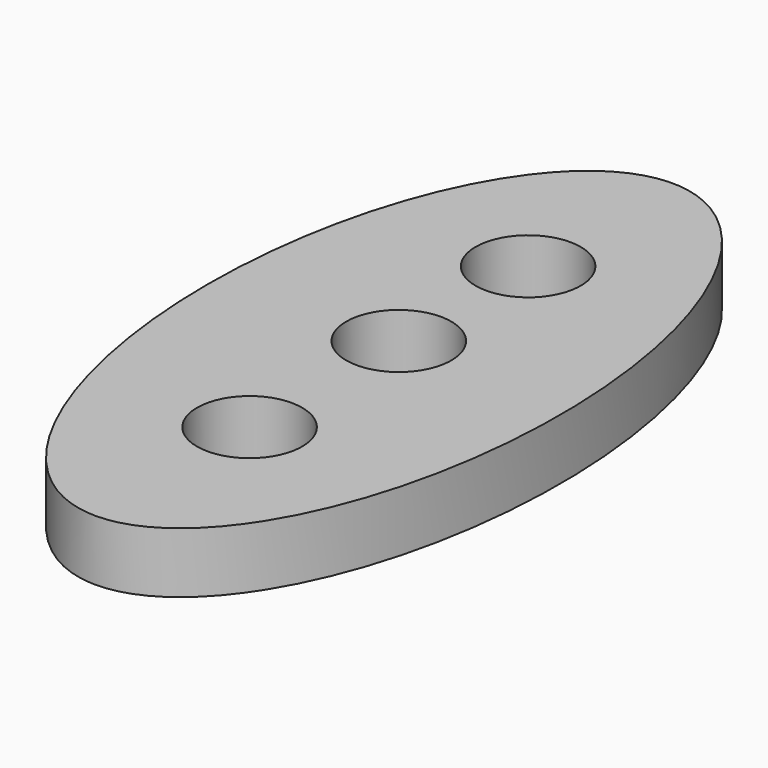
from build123d import *

# Parameters (mm, degrees)
F2_DEPTH = 12.7
F4_D     = 22.01164


with BuildPart() as f2:
    # F0 (on Top) → F2 (new body)
    with BuildSketch(Plane.XY):
        with BuildLine():
            add(Edge.make_bspline(
                [(0, 0), (63.9823091671, 0), (31.9911545836, 113.1262108684), (0, 226.2524217367), (-31.9911545836, 113.1262108684), (-63.9823091671, 0), (0, 0)],
                knots=[0, 0, 0, 2.0943951024, 2.0943951024, 4.1887902048, 4.1887902048, 6.2831853072, 6.2831853072, 6.2831853072], degree=2, weights=[1, 0.5, 1, 0.5, 1, 0.5, 1]))
        make_face()
    extrude(amount=F2_DEPTH)

    # F4 (through all)
    with Locations(Plane(origin=(0, 0, 0), x_dir=(1, 0, 0), z_dir=(0, 0, -1))):
        with Locations((0, -40.2606725693), (0, -79.2911499739), (0, -113.1302714348)):
            Hole(F4_D / 2)


solid = f2.part
